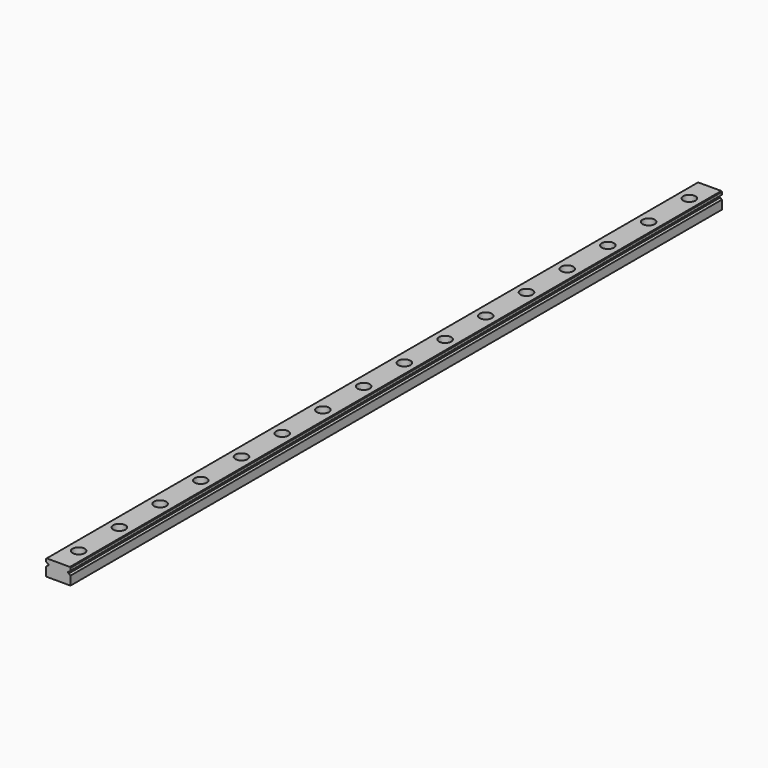
from build123d import *

# Parameters (mm, degrees)
F1_DEPTH       = 400
F3_D           = 3.5
F3_CBORE_D     = 6
F3_CBORE_DEPTH = 4


with BuildPart() as f1:
    # F0 (on Front) → F1 (new body)
    with BuildSketch(Plane.XZ):
        with BuildLine():
            Line((6, 2.7), (5.7, 3))
            Line((5.7, 3), (-5.7, 3))
            Line((-5.7, 3), (-6, 2.7))
            Line((-6, 2.7), (-6, 1.447119))
            ThreePointArc((-6, 1.447119), (-5.563292, 1.166932), (-5.29972, 0.72))
            Line((-5.29972, 0.72), (-4.69, 0.72))
            Line((-4.69, 0.72), (-4.69, 0.08))
            Line((-4.69, 0.08), (-5.293757, 0.08))
            ThreePointArc((-5.293757, 0.08), (-5.556089, -0.379382), (-6, -0.667119))
            Line((-6, -0.667119), (-6, -5))
            Line((-6, -5), (6, -5))
            Line((6, -5), (6, -2.7))
            Line((6, -2.7), (6, -0.667119))
            ThreePointArc((6, -0.667119), (5.556089, -0.379382), (5.293757, 0.08))
            Line((5.293757, 0.08), (4.69, 0.08))
            Line((4.69, 0.08), (4.69, 0.72))
            Line((4.69, 0.72), (5.29972, 0.72))
            ThreePointArc((5.29972, 0.72), (5.563292, 1.166932), (6, 1.447119))
            Line((6, 1.447119), (6, 2.7))
        make_face()
    extrude(amount=-F1_DEPTH)

    # F3 (through all)
    with Locations(Plane.XY.offset(3)):
        with Locations((0, 12.5), (0, 37.5), (0, 62.5), (0, 87.5), (0, 112.5), (0, 137.5), (0, 162.5), (0, 187.5), (0, 212.5), (0, 237.5), (0, 262.5), (0, 287.5), (0, 312.5), (0, 337.5), (0, 362.5), (0, 387.5)):
            CounterBoreHole(F3_D / 2, F3_CBORE_D / 2, F3_CBORE_DEPTH)


solid = f1.part
